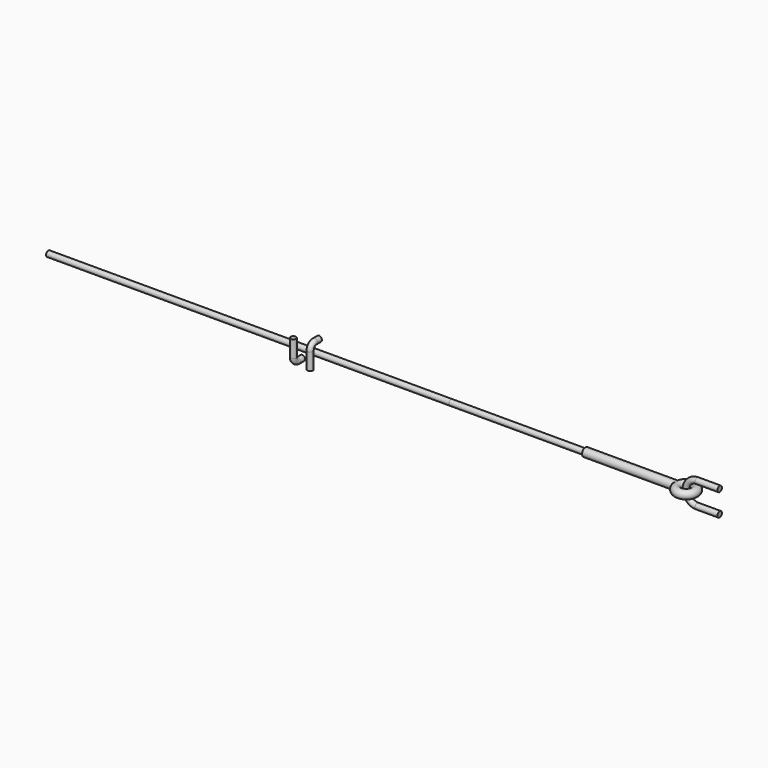
from build123d import *

# Parameters (mm, degrees)
F0_R      = 6.35
F5_R      = 9.525
F9_R      = 9.525
F11_R     = 6.35
F12_DEPTH = 304.8
F13_R     = 6.35
F14_DEPTH = 914.4
F15_R     = 6.35
F16_R     = 6.35


with BuildPart() as f2:
    # F2: sweep along a path in F1
    with BuildLine(Plane.XZ) as f2_path:
        Line((0, 25.4), (-50.8, 25.4))
        ThreePointArc((-50.8, 25.4), (-68.7605122421, 17.9605122421), (-76.2, 0))
        ThreePointArc((-76.2, 0), (-68.7605122421, -17.9605122421), (-50.8, -25.4))
        Line((-50.8, -25.4), (0, -25.4))
    # F0 (on Right) → F2 (sweep)
    with BuildSketch(Plane.YZ):
        with Locations((-6.35, 25.4)):
            Circle(F0_R)
    sweep(path=f2_path.line)


with BuildPart() as f7:
    # F7: sweep along a path in F6
    with BuildLine(Plane.XY) as f7_path:
        CenterArc((-76.2, -6.35), 15.875, 0, 360)
    # F5 (on 3pt) → F7 (sweep)
    with BuildSketch(Plane.XZ.offset(6.35)):
        with Locations((-95.25, 0)):
            Circle(F5_R)
    sweep(path=f7_path.line)

    # F9 (on offset) → F10 (join, up to the next surface of F7)
    with BuildSketch(Plane.YZ.offset(-304.8)):
        with Locations((-6.35, 0)):
            Circle(F9_R)
    extrude(until=Until.NEXT)


with BuildPart() as f12:
    # F11 (on face) → F12 (new body)
    with BuildSketch(Plane(origin=(-304.8, 0, 0), x_dir=(0, -1, 0), z_dir=(-1, 0, 0))):
        with Locations((6.35, 0)):
            Circle(F11_R)
    extrude(amount=F12_DEPTH)


with BuildPart() as f14:
    # F13 (on face) → F14 (new body)
    with BuildSketch(Plane(origin=(-609.6, 0, 0), x_dir=(0, -1, 0), z_dir=(-1, 0, 0))):
        with Locations((6.35, 0)):
            Circle(F13_R)
    extrude(amount=F14_DEPTH)


with BuildPart() as f19:
    # F19: sweep along a path in F17
    with BuildLine(Plane.YZ.offset(-304.8)) as f19_path:
        Line((0, 25.4), (-12.7, 25.4))
        ThreePointArc((-12.7, 25.4), (-21.6802561211, 21.6802561211), (-25.4, 12.7))
        Line((-25.4, 12.7), (-25.4, -25.4))
    # F15 (on Front) → F19 (sweep)
    with BuildSketch(Plane.XZ):
        with Locations((-914.4, 25.4)):
            Circle(F15_R)
    sweep(path=f19_path.line)


with BuildPart() as f20:
    # F20: sweep along a path in F18
    with BuildLine(Plane.YZ.offset(-304.8)) as f20_path:
        Line((0, -25.4), (-12.7, -25.4))
        ThreePointArc((-12.7, -25.4), (-21.6802561211, -21.6802561211), (-25.4, -12.7))
        Line((-25.4, -12.7), (-25.4, 25.4))
    # F16 (on Front) → F20 (sweep)
    with BuildSketch(Plane.XZ):
        with Locations((-952.5, -25.4)):
            Circle(F16_R)
    sweep(path=f20_path.line)


solid = Compound([f2.part, f7.part, f12.part, f14.part, f19.part, f20.part])
